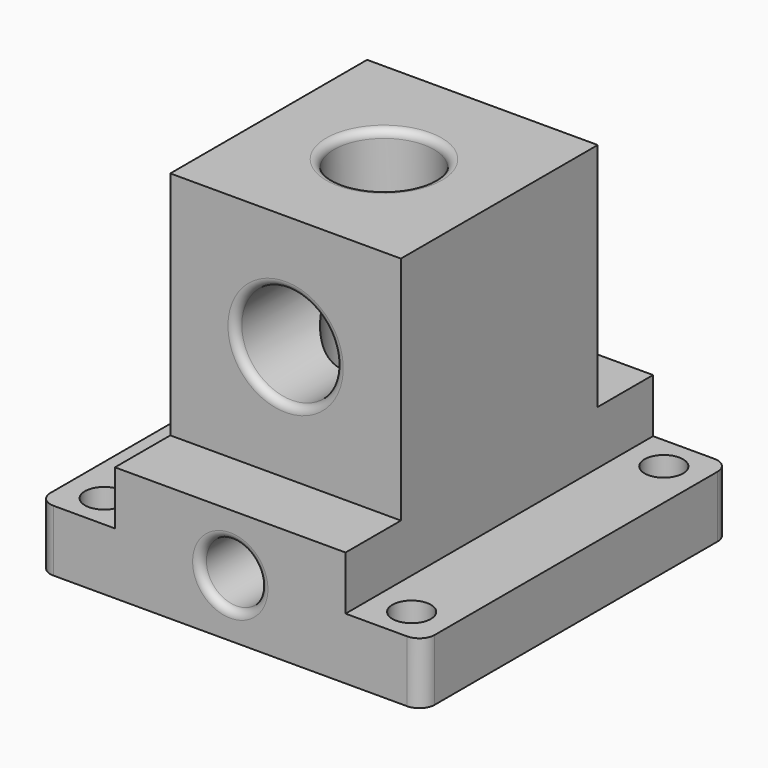
from build123d import *

# Parameters (mm, degrees)
F0_R     = 2.5
F0_W     = 30
F0_H     = 9
F0_H_2   = 32
F0_R_2   = 6.5
F1_DEPTH = 8
F2_DEPTH = 15
F3_DEPTH = 45
F4_R     = 6.5
F4_R_2   = 3.9
F5_DEPTH = 50.001
F6_R     = 1
F7_R     = 2


with BuildPart() as f1:
    # F0 (on Top) → F1 (new body)
    with BuildSketch(Plane.XY):
        Polygon((-17.0449850708, 15.6351606453), (-27.0449850708, 15.6351606453), (-27.0449850708, -34.3648393547), (-17.0449850708, -34.3648393547), (-17.0449850708, -25.3648393547), (-17.0449850708, 6.6351606453), align=None)
        with Locations((-22.0449850708, -29.8648393547)):
            Circle(F0_R, mode=Mode.SUBTRACT)
        with Locations((-22.0449850708, 11.1351606453)):
            Circle(F0_R, mode=Mode.SUBTRACT)
        with Locations((-2.0449850708, 11.1351606453)):
            Rectangle(F0_W, F0_H)
        Polygon((22.9550149292, 15.6351606453), (12.9550149292, 15.6351606453), (12.9550149292, 6.6351606453), (12.9550149292, -25.3648393547), (12.9550149292, -34.3648393547), (22.9550149292, -34.3648393547), align=None)
        with Locations((17.9550149292, -29.8648393547)):
            Circle(F0_R, mode=Mode.SUBTRACT)
        with Locations((17.9550149292, 11.1351606453)):
            Circle(F0_R, mode=Mode.SUBTRACT)
        with Locations((-2.0449850708, -29.8648393547)):
            Rectangle(F0_W, F0_H)
        with Locations((-2.0449850708, -9.3648393547)):
            Rectangle(F0_W, F0_H_2)
        with Locations((-2.0449850708, -9.3648393547)):
            Circle(F0_R_2, mode=Mode.SUBTRACT)
    extrude(amount=F1_DEPTH)

    # F0 (on Top) → F2 (join)
    with BuildSketch(Plane.XY):
        with Locations((-2.0449850708, 11.1351606453)):
            Rectangle(F0_W, F0_H)
        with Locations((-2.0449850708, -29.8648393547)):
            Rectangle(F0_W, F0_H)
        with Locations((-2.0449850708, -9.3648393547)):
            Rectangle(F0_W, F0_H_2)
        with Locations((-2.0449850708, -9.3648393547)):
            Circle(F0_R_2, mode=Mode.SUBTRACT)
    extrude(amount=F2_DEPTH)

    # F0 (on Top) → F3 (join)
    with BuildSketch(Plane.XY):
        with Locations((-2.0449850708, -9.3648393547)):
            Rectangle(F0_W, F0_H_2)
        with Locations((-2.0449850708, -9.3648393547)):
            Circle(F0_R_2, mode=Mode.SUBTRACT)
    extrude(amount=F3_DEPTH)

    # F4 (on face) → F5 (cut, through all)
    with BuildSketch(Plane(origin=(0, 15.6351606453, 0), x_dir=(-1, 0, 0), z_dir=(0, 1, 0))):
        with Locations((2.0449850708, 30)):
            Circle(F4_R)
        with Locations((2.0449850708, 7.5)):
            Circle(F4_R_2)
    extrude(amount=-F5_DEPTH, mode=Mode.SUBTRACT)

    # F6
    f6_edges = [f1.edges().sort_by_distance(p)[0] for p in [
        (1.855015, 15.635161, 7.5),
        (1.855015, -34.364839, 7.5),
        (-8.544985, -9.364839, 45),
        (4.455015, -25.364839, 30),
        (4.455015, 6.635161, 30),
    ]]
    fillet(f6_edges, radius=F6_R)

    # F7
    f7_edges = [f1.edges().sort_by_distance(p)[0] for p in [
        (-27.044985, -34.364839, 4),
        (22.955015, -34.364839, 4),
        (22.955015, 15.635161, 4),
        (-27.044985, 15.635161, 4),
    ]]
    fillet(f7_edges, radius=F7_R)


solid = f1.part
